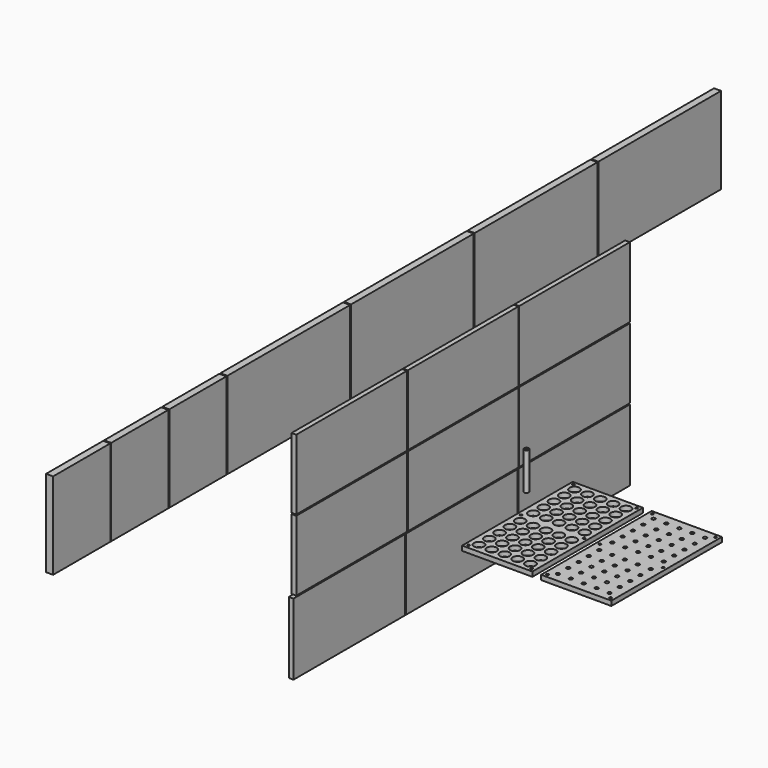
from build123d import *

# Parameters (mm, degrees)
F0_W      = 190.5
F0_H      = 374.65
F1_DEPTH  = 12.7
F2_R      = 13.49375
F2_R_2    = 3.175
F3_DEPTH  = 12.7
F4_R      = 6.35
F4_R_2    = 3.175
F5_DEPTH  = 101.6
F6_W      = 190.5
F6_H      = 374.65
F7_DEPTH  = 12.7
F8_R      = 3.175
F9_DEPTH  = 25.4
F10_R     = 4.7625
F11_DEPTH = 12.7
F15_W     = 415.925
F15_H     = 234.95
F16_DEPTH = 19.05
F15_W_2   = 193.675
F13_W     = 374.65
F13_H     = 190.5
F17_DEPTH = 12.7
F13_W_2   = 377.825
F13_H_2   = 193.675


with BuildPart() as f1:
    # F0 (on Top) → F1 (new body)
    with BuildSketch(Plane.XY):
        Rectangle(F0_W, F0_H)
    extrude(amount=F1_DEPTH)

    # F2 (on face) → F3 (cut, through all)
    with BuildSketch(Plane.XY.offset(12.7)):
        with Locations((-69.85, 161.925)):
            Circle(F2_R)
        with Locations((-69.85, 127)):
            Circle(F2_R)
        with Locations((-69.85, 92.075)):
            Circle(F2_R)
        with Locations((-69.85, 57.15)):
            Circle(F2_R)
        with Locations((-69.85, 22.225)):
            Circle(F2_R)
        with Locations((-34.925, 161.925)):
            Circle(F2_R)
        with Locations((-34.925, 127)):
            Circle(F2_R)
        with Locations((-34.925, 92.075)):
            Circle(F2_R)
        with Locations((-34.925, 57.15)):
            Circle(F2_R)
        with Locations((-34.925, 22.225)):
            Circle(F2_R)
        with Locations((0, 161.925)):
            Circle(F2_R)
        with Locations((0, 127)):
            Circle(F2_R)
        with Locations((0, 92.075)):
            Circle(F2_R)
        with Locations((0, 57.15)):
            Circle(F2_R)
        with Locations((0, 22.225)):
            Circle(F2_R)
        with Locations((34.925, 161.925)):
            Circle(F2_R)
        with Locations((34.925, 127)):
            Circle(F2_R)
        with Locations((34.925, 92.075)):
            Circle(F2_R)
        with Locations((34.925, 57.15)):
            Circle(F2_R)
        with Locations((34.925, 22.225)):
            Circle(F2_R)
        with Locations((69.85, 161.925)):
            Circle(F2_R)
        with Locations((69.85, 127)):
            Circle(F2_R)
        with Locations((69.85, 92.075)):
            Circle(F2_R)
        with Locations((69.85, 57.15)):
            Circle(F2_R)
        with Locations((69.85, 22.225)):
            Circle(F2_R)
        with Locations((-69.85, -161.925)):
            Circle(F2_R)
        with Locations((-85.725, 177.8)):
            Circle(F2_R_2)
        with Locations((85.725, 177.8)):
            Circle(F2_R_2)
        with Locations((-85.725, 0)):
            Circle(F2_R_2)
        with Locations((85.725, 0)):
            Circle(F2_R_2)
        with Locations((-85.725, -177.8)):
            Circle(F2_R_2)
        with Locations((85.725, -177.8)):
            Circle(F2_R_2)
        with Locations((-69.85, -127)):
            Circle(F2_R)
        with Locations((-69.85, -92.075)):
            Circle(F2_R)
        with Locations((-69.85, -57.15)):
            Circle(F2_R)
        with Locations((-69.85, -22.225)):
            Circle(F2_R)
        with Locations((-34.925, -161.925)):
            Circle(F2_R)
        with Locations((-34.925, -127)):
            Circle(F2_R)
        with Locations((-34.925, -92.075)):
            Circle(F2_R)
        with Locations((-34.925, -57.15)):
            Circle(F2_R)
        with Locations((-34.925, -22.225)):
            Circle(F2_R)
        with Locations((0, -161.925)):
            Circle(F2_R)
        with Locations((0, -127)):
            Circle(F2_R)
        with Locations((0, -92.075)):
            Circle(F2_R)
        with Locations((0, -57.15)):
            Circle(F2_R)
        with Locations((0, -22.225)):
            Circle(F2_R)
        with Locations((34.925, -161.925)):
            Circle(F2_R)
        with Locations((34.925, -127)):
            Circle(F2_R)
        with Locations((34.925, -92.075)):
            Circle(F2_R)
        with Locations((34.925, -57.15)):
            Circle(F2_R)
        with Locations((34.925, -22.225)):
            Circle(F2_R)
        with Locations((69.85, -161.925)):
            Circle(F2_R)
        with Locations((69.85, -127)):
            Circle(F2_R)
        with Locations((69.85, -92.075)):
            Circle(F2_R)
        with Locations((69.85, -57.15)):
            Circle(F2_R)
        with Locations((69.85, -22.225)):
            Circle(F2_R)
    extrude(amount=-F3_DEPTH, mode=Mode.SUBTRACT)


with BuildPart() as f5:
    # F4 (on Top) → F5 (new body)
    with BuildSketch(Plane.XY):
        with Locations((-158.6542576551, 109.9926158786)):
            Circle(F4_R)
        with Locations((-158.6542576551, 109.9926158786)):
            Circle(F4_R_2, mode=Mode.SUBTRACT)
    extrude(amount=F5_DEPTH)


with BuildPart() as f7:
    # F6 (on Top) → F7 (new body)
    with BuildSketch(Plane.XY):
        with Locations((214.1521482321, 0)):
            Rectangle(F6_W, F6_H)
    extrude(amount=F7_DEPTH)

    # F8 (on face) → F9 (cut)
    with BuildSketch(Plane.XY.offset(12.7)):
        with Locations((128.4271482321, 177.8)):
            Circle(F8_R)
        with Locations((299.8771482321, 177.8)):
            Circle(F8_R)
        with Locations((128.4271482321, 0)):
            Circle(F8_R)
        with Locations((299.8771482321, 0)):
            Circle(F8_R)
        with Locations((128.4271482321, -177.8)):
            Circle(F8_R)
        with Locations((299.8771482321, -177.8)):
            Circle(F8_R)
    extrude(amount=-F9_DEPTH, mode=Mode.SUBTRACT)

    # F10 (on face) → F11 (cut)
    with BuildSketch(Plane.XY.offset(12.7)):
        with Locations((144.3021482321, 161.925)):
            Circle(F10_R)
        with Locations((144.3021482321, 127)):
            Circle(F10_R)
        with Locations((144.3021482321, 92.075)):
            Circle(F10_R)
        with Locations((144.3021482321, 57.15)):
            Circle(F10_R)
        with Locations((144.3021482321, 22.225)):
            Circle(F10_R)
        with Locations((179.2271482321, 161.925)):
            Circle(F10_R)
        with Locations((179.2271482321, 127)):
            Circle(F10_R)
        with Locations((179.2271482321, 92.075)):
            Circle(F10_R)
        with Locations((179.2271482321, 57.15)):
            Circle(F10_R)
        with Locations((179.2271482321, 22.225)):
            Circle(F10_R)
        with Locations((214.1521482321, 161.925)):
            Circle(F10_R)
        with Locations((214.1521482321, 127)):
            Circle(F10_R)
        with Locations((214.1521482321, 92.075)):
            Circle(F10_R)
        with Locations((214.1521482321, 57.15)):
            Circle(F10_R)
        with Locations((214.1521482321, 22.225)):
            Circle(F10_R)
        with Locations((249.0771482321, 161.925)):
            Circle(F10_R)
        with Locations((249.0771482321, 127)):
            Circle(F10_R)
        with Locations((249.0771482321, 92.075)):
            Circle(F10_R)
        with Locations((249.0771482321, 57.15)):
            Circle(F10_R)
        with Locations((249.0771482321, 22.225)):
            Circle(F10_R)
        with Locations((284.0021482321, 161.925)):
            Circle(F10_R)
        with Locations((284.0021482321, 127)):
            Circle(F10_R)
        with Locations((284.0021482321, 92.075)):
            Circle(F10_R)
        with Locations((284.0021482321, 57.15)):
            Circle(F10_R)
        with Locations((284.0021482321, 22.225)):
            Circle(F10_R)
        with Locations((144.3021482321, -161.925)):
            Circle(F10_R)
        with Locations((144.3021482321, -127)):
            Circle(F10_R)
        with Locations((144.3021482321, -92.075)):
            Circle(F10_R)
        with Locations((144.3021482321, -57.15)):
            Circle(F10_R)
        with Locations((144.3021482321, -22.225)):
            Circle(F10_R)
        with Locations((179.2271482321, -161.925)):
            Circle(F10_R)
        with Locations((179.2271482321, -127)):
            Circle(F10_R)
        with Locations((179.2271482321, -92.075)):
            Circle(F10_R)
        with Locations((179.2271482321, -57.15)):
            Circle(F10_R)
        with Locations((179.2271482321, -22.225)):
            Circle(F10_R)
        with Locations((214.1521482321, -161.925)):
            Circle(F10_R)
        with Locations((214.1521482321, -127)):
            Circle(F10_R)
        with Locations((214.1521482321, -92.075)):
            Circle(F10_R)
        with Locations((214.1521482321, -57.15)):
            Circle(F10_R)
        with Locations((214.1521482321, -22.225)):
            Circle(F10_R)
        with Locations((249.0771482321, -161.925)):
            Circle(F10_R)
        with Locations((249.0771482321, -127)):
            Circle(F10_R)
        with Locations((249.0771482321, -92.075)):
            Circle(F10_R)
        with Locations((249.0771482321, -57.15)):
            Circle(F10_R)
        with Locations((249.0771482321, -22.225)):
            Circle(F10_R)
        with Locations((284.0021482321, -161.925)):
            Circle(F10_R)
        with Locations((284.0021482321, -127)):
            Circle(F10_R)
        with Locations((284.0021482321, -92.075)):
            Circle(F10_R)
        with Locations((284.0021482321, -57.15)):
            Circle(F10_R)
        with Locations((284.0021482321, -22.225)):
            Circle(F10_R)
    extrude(amount=-F11_DEPTH, mode=Mode.SUBTRACT)


with BuildPart() as f16:
    # F15 (on offset) → F16 (new body)
    with BuildSketch(Plane.YZ.offset(-508)):
        with Locations((974.4172373295, 295.7657694857)):
            Rectangle(F15_W, F15_H)
    extrude(amount=F16_DEPTH)


with BuildPart() as f16b:
    # F15 (on offset) → F16, piece 2 (new body)
    with BuildSketch(Plane.YZ.offset(-508)):
        with Locations((555.3172373295, 295.7657694857)):
            Rectangle(F15_W, F15_H)
    extrude(amount=F16_DEPTH)


with BuildPart() as f16c:
    # F15 (on offset) → F16, piece 3 (new body)
    with BuildSketch(Plane.YZ.offset(-508)):
        with Locations((136.2172373295, 295.7657694857)):
            Rectangle(F15_W, F15_H)
    extrude(amount=F16_DEPTH)


with BuildPart() as f16d:
    # F15 (on offset) → F16, piece 4 (new body)
    with BuildSketch(Plane.YZ.offset(-508)):
        with Locations((-282.8827626705, 295.7657694857)):
            Rectangle(F15_W, F15_H)
    extrude(amount=F16_DEPTH)


with BuildPart() as f16e:
    # F15 (on offset) → F16, piece 5 (new body)
    with BuildSketch(Plane.YZ.offset(-508)):
        with Locations((-590.8577626705, 295.7657694857)):
            Rectangle(F15_W_2, F15_H)
    extrude(amount=F16_DEPTH)


with BuildPart() as f16f:
    # F15 (on offset) → F16, piece 6 (new body)
    with BuildSketch(Plane.YZ.offset(-508)):
        with Locations((-787.7077626705, 295.7657694857)):
            Rectangle(F15_W_2, F15_H)
    extrude(amount=F16_DEPTH)


with BuildPart() as f16g:
    # F15 (on offset) → F16, piece 7 (new body)
    with BuildSketch(Plane.YZ.offset(-508)):
        with Locations((-984.5577626705, 295.7657694857)):
            Rectangle(F15_W_2, F15_H)
    extrude(amount=F16_DEPTH)


with BuildPart() as f17:
    # F13 (on offset) → F17 (new body)
    with BuildSketch(Plane.YZ.offset(-254)):
        with Locations((376.1282048464, 288.925)):
            Rectangle(F13_W, F13_H)
    extrude(amount=F17_DEPTH)


with BuildPart() as f17b:
    # F13 (on offset) → F17, piece 2 (new body)
    with BuildSketch(Plane.YZ.offset(-254)):
        with Locations((-1.6967951536, 288.925)):
            Rectangle(F13_W, F13_H)
    extrude(amount=F17_DEPTH)


with BuildPart() as f17c:
    # F13 (on offset) → F17, piece 3 (new body)
    with BuildSketch(Plane.YZ.offset(-254)):
        with Locations((-379.5217951536, 288.925)):
            Rectangle(F13_W, F13_H)
    extrude(amount=F17_DEPTH)


with BuildPart() as f17d:
    # F13 (on offset) → F17, piece 4 (new body)
    with BuildSketch(Plane.YZ.offset(-254)):
        with Locations((376.1282048464, 95.25)):
            Rectangle(F13_W, F13_H)
    extrude(amount=F17_DEPTH)


with BuildPart() as f17e:
    # F13 (on offset) → F17, piece 5 (new body)
    with BuildSketch(Plane.YZ.offset(-254)):
        with Locations((-1.6967951536, 95.25)):
            Rectangle(F13_W, F13_H)
    extrude(amount=F17_DEPTH)


with BuildPart() as f17f:
    # F13 (on offset) → F17, piece 6 (new body)
    with BuildSketch(Plane.YZ.offset(-254)):
        with Locations((-379.5217951536, 95.25)):
            Rectangle(F13_W, F13_H)
    extrude(amount=F17_DEPTH)


with BuildPart() as f17g:
    # F13 (on offset) → F17, piece 7 (new body)
    with BuildSketch(Plane.YZ.offset(-254)):
        with Locations((374.5407048464, -100.0125)):
            Rectangle(F13_W_2, F13_H_2)
    extrude(amount=F17_DEPTH)


with BuildPart() as f17h:
    # F13 (on offset) → F17, piece 8 (new body)
    with BuildSketch(Plane.YZ.offset(-254)):
        with Locations((-6.4592951536, -100.0125)):
            Rectangle(F13_W_2, F13_H_2)
    extrude(amount=F17_DEPTH)


with BuildPart() as f17i:
    # F13 (on offset) → F17, piece 9 (new body)
    with BuildSketch(Plane.YZ.offset(-254)):
        with Locations((-387.4592951536, -100.0125)):
            Rectangle(F13_W_2, F13_H_2)
    extrude(amount=F17_DEPTH)


solid = Compound([f1.part, f5.part, f7.part, f16.part, f16b.part, f16c.part, f16d.part, f16e.part, f16f.part, f16g.part, f17.part, f17b.part, f17c.part, f17d.part, f17e.part, f17f.part, f17g.part, f17h.part, f17i.part])
